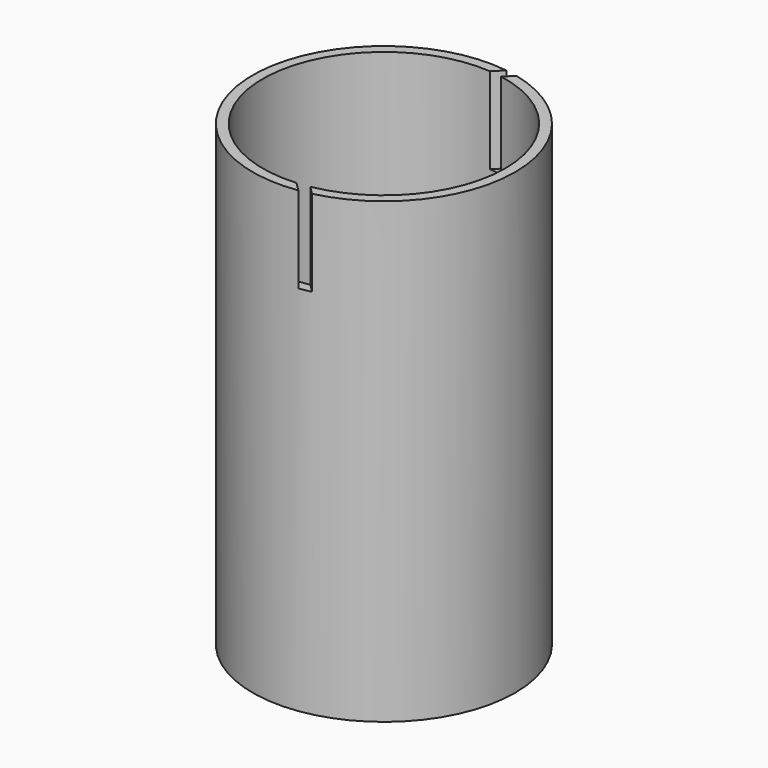
from build123d import *

# Parameters (mm, degrees)
CYLINDER007_R     = 31.5
CYLINDER007_DEPTH = 110
CYLINDER008_R     = 29.1
CYLINDER008_DEPTH = 110
POCKET064_DEPTH   = 20.7


with BuildPart() as part:
    # Cylinder007 → Cylinder007 (join)
    with BuildSketch(Plane.XY.offset(-31)):
        Circle(CYLINDER007_R)
    extrude(amount=CYLINDER007_DEPTH)

    # Cylinder008 → Cylinder008 (cut)
    with BuildSketch(Plane.XY.offset(-28)):
        Circle(CYLINDER008_R)
    extrude(amount=CYLINDER008_DEPTH, mode=Mode.SUBTRACT)

    # Sketch123 (on DatumPlane) → Pocket064 (cut)
    with BuildSketch(Plane.XY.offset(79)):
        Polygon((-20.565207, -6.209014), (-18.868151, -4.511957), (9.318102, -32.69821), (7.621046, -34.395267), align=None)
        Polygon((-18.868151, 4.511957), (-20.565207, 6.209014), (7.621046, 34.395267), (9.318102, 32.69821), align=None)
    extrude(amount=-POCKET064_DEPTH, mode=Mode.SUBTRACT)


with BuildPart() as part_1:
    # Body022024 placement: moved
    add(part.part.moved(Location((-2.5, 0, 834))))


solid = part_1.part
